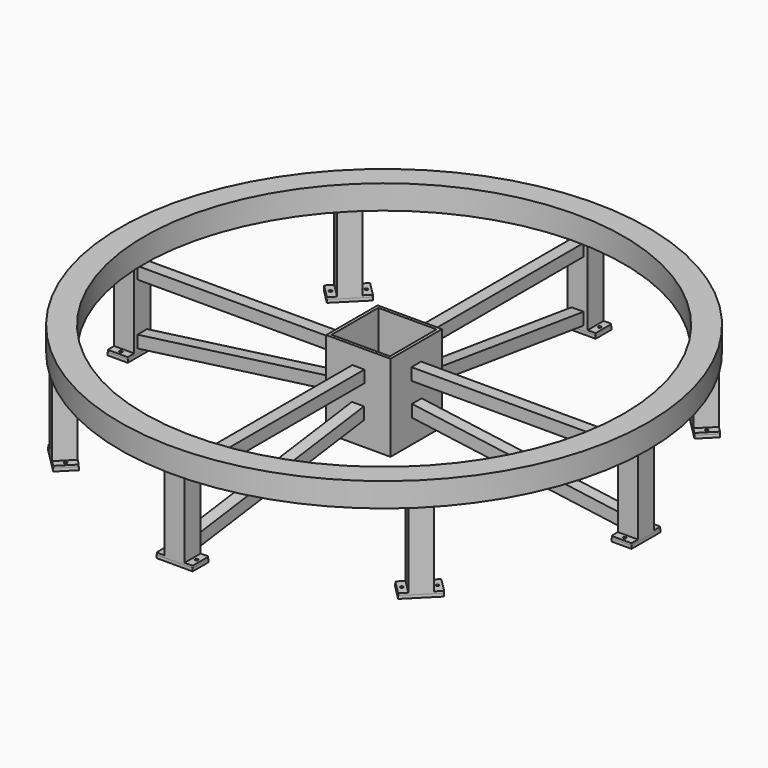
from build123d import *

# Parameters (mm, degrees)
F0_W           = 76.2
F0_H           = 76.2
F0_W_2         = 63.4999948502
F0_H_2         = 63.5
F3_W           = 63.5
F3_H           = 63.5
F3_W_2         = 50.799999693
F3_H_2         = 50.8
F4_DEPTH       = 238.125
F5_W           = 114.3
F5_H           = 63.5
F5_R           = 4.7625
F6_DEPTH       = 6.35
F7_R           = 3.175
F8_W           = 114.3
F8_H           = 63.5
F9_DEPTH       = 9.525
F10_COUNT      = 8
F11_W          = 203.2
F11_H          = 203.2
F11_W_2        = 184.15
F11_H_2        = 184.15
F12_DEPTH      = 215.9
F12_DEPTH_BACK = 56.6420254
F13_W          = 662.079575
F13_H          = 38.1
F14_DEPTH      = 38.1
F13_W_2        = 38.1
F13_H_2        = 662.079575
F16_DEPTH      = 19.05
F16_DEPTH_BACK = 19.05
F17_COUNT      = 4


with BuildPart() as f1:
    # F0 (on Front) → F1 (revolve)
    with BuildSketch(Plane.XZ):
        with Locations((795.429575, -38.1)):
            Rectangle(F0_W, F0_H)
        with Locations((795.4295775749, -38.1)):
            Rectangle(F0_W_2, F0_H_2, mode=Mode.SUBTRACT)
        with Locations((795.4295775749, -38.1)):
            Rectangle(F0_W_2, F0_H_2)
    revolve(axis=Axis((0, 0, -23.2824478298), (0, 0, -1)))


with BuildPart() as f4:
    # F3 (on offset) → F4 (new body)
    with BuildSketch(Plane.XY.offset(-76.2)):
        with Locations((0, 795.429575)):
            Rectangle(F3_W, F3_H)
        with Locations((-1.535e-07, 795.429575)):
            Rectangle(F3_W_2, F3_H_2, mode=Mode.SUBTRACT)
    extrude(amount=-F4_DEPTH)

    # F5 (on face) → F6 (join)
    with BuildSketch(Plane(origin=(0, 0, -314.325), x_dir=(1, 0, 0), z_dir=(0, 0, -1))):
        with Locations((-1.535e-07, -795.429575)):
            Rectangle(F5_W, F5_H)
        with Locations((-44.4500001535, -795.429575)):
            Circle(F5_R, mode=Mode.SUBTRACT)
        with Locations((44.4499998465, -795.429575)):
            Circle(F5_R, mode=Mode.SUBTRACT)
    extrude(amount=F6_DEPTH)

    # F7
    f7_edges = [f4.edges().sort_by_distance(p)[0] for p in [
        (57.15, 827.179575, -317.5),
        (57.15, 763.679575, -317.5),
        (-57.15, 827.179575, -317.5),
        (-57.15, 763.679575, -317.5),
    ]]
    fillet(f7_edges, radius=F7_R)


with BuildPart() as f9:
    # F8 (on face) → F9 (new body)
    with BuildSketch(Plane(origin=(0, 0, -320.675), x_dir=(1, 0, 0), z_dir=(0, 0, -1))):
        with Locations((-1.535e-07, -795.429575)):
            Rectangle(F8_W, F8_H)
    extrude(amount=F9_DEPTH)


with BuildPart() as f10_1:
    # F10: instance of F4
    add(f4.part.rotate(Axis((0, 0, 0), (0, 0, -1)), 1 * 360 / F10_COUNT))


with BuildPart() as f10_2:
    # F10: instance of F4
    add(f4.part.rotate(Axis((0, 0, 0), (0, 0, -1)), 2 * 360 / F10_COUNT))


with BuildPart() as f10_3:
    # F10: instance of F4
    add(f4.part.rotate(Axis((0, 0, 0), (0, 0, -1)), 3 * 360 / F10_COUNT))


with BuildPart() as f10_4:
    # F10: instance of F4
    add(f4.part.rotate(Axis((0, 0, 0), (0, 0, -1)), 4 * 360 / F10_COUNT))


with BuildPart() as f10_5:
    # F10: instance of F4
    add(f4.part.rotate(Axis((0, 0, 0), (0, 0, -1)), 5 * 360 / F10_COUNT))


with BuildPart() as f10_6:
    # F10: instance of F4
    add(f4.part.rotate(Axis((0, 0, 0), (0, 0, -1)), 6 * 360 / F10_COUNT))


with BuildPart() as f10_7:
    # F10: instance of F4
    add(f4.part.rotate(Axis((0, 0, 0), (0, 0, -1)), 7 * 360 / F10_COUNT))


with BuildPart() as f10_8:
    # F10: instance of F9
    add(f9.part.rotate(Axis((0, 0, 0), (0, 0, -1)), 1 * 360 / F10_COUNT))


with BuildPart() as f10_9:
    # F10: instance of F9
    add(f9.part.rotate(Axis((0, 0, 0), (0, 0, -1)), 2 * 360 / F10_COUNT))


with BuildPart() as f10_10:
    # F10: instance of F9
    add(f9.part.rotate(Axis((0, 0, 0), (0, 0, -1)), 3 * 360 / F10_COUNT))


with BuildPart() as f10_11:
    # F10: instance of F9
    add(f9.part.rotate(Axis((0, 0, 0), (0, 0, -1)), 4 * 360 / F10_COUNT))


with BuildPart() as f10_12:
    # F10: instance of F9
    add(f9.part.rotate(Axis((0, 0, 0), (0, 0, -1)), 5 * 360 / F10_COUNT))


with BuildPart() as f10_13:
    # F10: instance of F9
    add(f9.part.rotate(Axis((0, 0, 0), (0, 0, -1)), 6 * 360 / F10_COUNT))


with BuildPart() as f10_14:
    # F10: instance of F9
    add(f9.part.rotate(Axis((0, 0, 0), (0, 0, -1)), 7 * 360 / F10_COUNT))


with BuildPart() as f12:
    # F11 (on offset) → F12 (new body, two sides)
    with BuildSketch(Plane.XY.offset(-76.2)) as f12_sk:
        Rectangle(F11_W, F11_H)
        Rectangle(F11_W_2, F11_H_2, mode=Mode.SUBTRACT)
    extrude(amount=-F12_DEPTH)
    extrude(f12_sk.sketch, amount=F12_DEPTH_BACK)


with BuildPart() as f14:
    # F13 (on offset) → F14 (new body)
    with BuildSketch(Plane.XY.offset(-76.2)):
        with Locations((432.6397875, 0)):
            Rectangle(F13_W, F13_H)
    extrude(amount=-F14_DEPTH)


with BuildPart() as f14b:
    # F13 (on offset) → F14, piece 2 (new body)
    with BuildSketch(Plane.XY.offset(-76.2)):
        with Locations((0, 432.6397875)):
            Rectangle(F13_W_2, F13_H_2)
    extrude(amount=-F14_DEPTH)


with BuildPart() as f14c:
    # F13 (on offset) → F14, piece 3 (new body)
    with BuildSketch(Plane.XY.offset(-76.2)):
        with Locations((-432.6397875, 0)):
            Rectangle(F13_W, F13_H)
    extrude(amount=-F14_DEPTH)


with BuildPart() as f14d:
    # F13 (on offset) → F14, piece 4 (new body)
    with BuildSketch(Plane.XY.offset(-76.2)):
        with Locations((0, -432.6397875)):
            Rectangle(F13_W_2, F13_H_2)
    extrude(amount=-F14_DEPTH)


with BuildPart() as f16:
    # F15 (on Right) → F16 (new body, two sides)
    with BuildSketch(Plane.YZ) as f16_sk:
        Polygon((-765.4254918328, -305.9097311629), (-103.3459168328, -216.2477869129), (-103.3459168328, -177.8), (-765.4254918328, -267.46194425), align=None)
    extrude(amount=F16_DEPTH)
    extrude(f16_sk.sketch, amount=-F16_DEPTH_BACK)


with BuildPart() as f17_1:
    # F17: instance of F16
    add(f16.part.rotate(Axis((0, 0, -76.2), (0, 0, -1)), 1 * 360 / F17_COUNT))


with BuildPart() as f17_2:
    # F17: instance of F16
    add(f16.part.rotate(Axis((0, 0, -76.2), (0, 0, -1)), 2 * 360 / F17_COUNT))


with BuildPart() as f17_3:
    # F17: instance of F16
    add(f16.part.rotate(Axis((0, 0, -76.2), (0, 0, -1)), 3 * 360 / F17_COUNT))


solid = Compound([f1.part, f4.part, f9.part, f10_1.part, f10_2.part, f10_3.part, f10_4.part, f10_5.part, f10_6.part, f10_7.part, f10_8.part, f10_9.part, f10_10.part, f10_11.part, f10_12.part, f10_13.part, f10_14.part, f12.part, f14.part, f14b.part, f14c.part, f14d.part, f16.part, f17_1.part, f17_2.part, f17_3.part])
